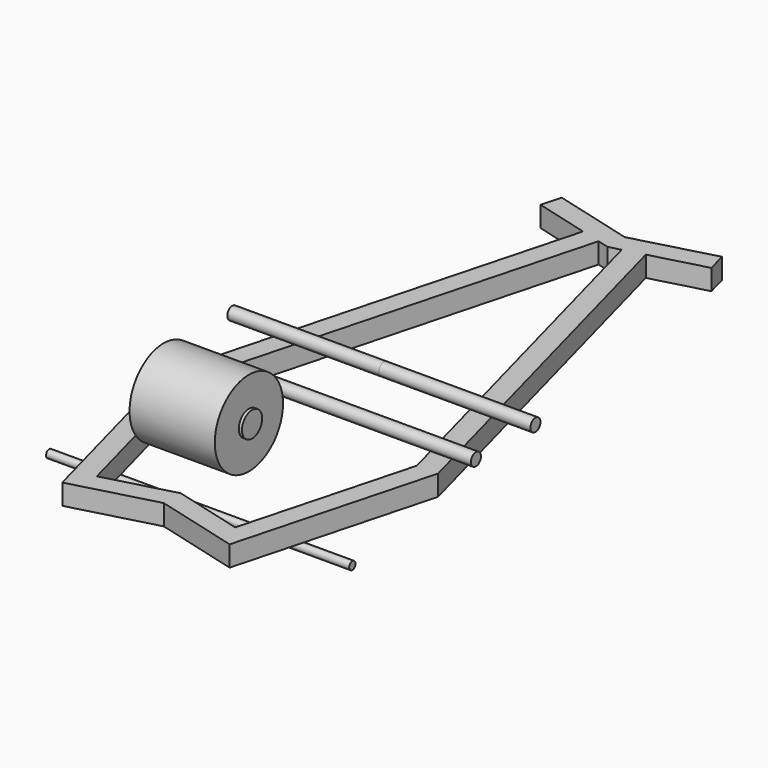
from build123d import *

# Parameters (mm, degrees)
F2_DEPTH = 41.275
F3_R     = 85.725
F3_R_2   = 25.4
F4_DEPTH = 85.725
F5_DEPTH = 92.075
F3_R_3   = 12.7
F3_R_4   = 7.9375
F6_DEPTH = 304.8


with BuildPart() as f2:
    # F0 (on Top) → F2 (new body)
    with BuildSketch(Plane.XY):
        Polygon((0, -347.463105), (168.275, -392.552256), (273.45906, 0), (63.09094, 785.104512), (23.222352, 774.421756), (230.728036, 0), (139.089168, -342.000911), (0, -304.732081), (-139.089168, -342.000911), (-230.728036, 0), (-23.222352, 774.421756), (-63.09094, 785.104512), (-273.45906, 0), (-168.275, -392.552256), align=None)
        Polygon((23.222352, 774.421756), (63.09094, 785.104512), (171.741612, 814.217371), (161.058856, 854.08596), (0, 810.93037), (-161.058856, 854.08596), (-171.741612, 814.217371), (-63.09094, 785.104512), (-23.222352, 774.421756), (0, 768.199345), align=None)
    extrude(amount=-F2_DEPTH)

    # F3 (on Right) → F6 (join, symmetric)
    with BuildSketch(Plane.YZ):
        with Locations((205.58922, 12.7)):
            Circle(F3_R_3)
        with Locations((-254.642904, -49.2125)):
            Circle(F3_R_4)
        with Locations((56.017872, 12.7)):
            Circle(F3_R_3)
    extrude(amount=F6_DEPTH, both=True)


with BuildPart() as f4:
    # F3 (on Right) → F4 (new body, symmetric)
    with BuildSketch(Plane.YZ):
        with Locations((-240.861938, 126.19717)):
            Circle(F3_R)
        with Locations((-240.861938, 126.19717)):
            Circle(F3_R_2, mode=Mode.SUBTRACT)
    extrude(amount=F4_DEPTH, both=True)

    # F3 (on Right) → F5 (join, symmetric)
    with BuildSketch(Plane.YZ):
        with Locations((-240.861938, 126.19717)):
            Circle(F3_R_2)
    extrude(amount=F5_DEPTH, both=True)


solid = Compound([f2.part, f4.part])
